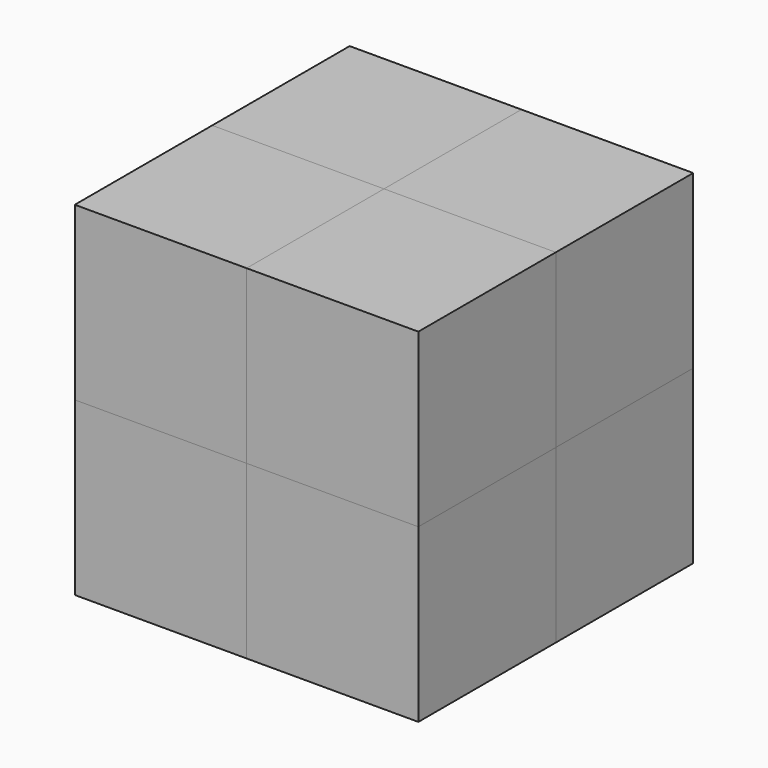
from build123d import *

# Parameters (mm, degrees)
BOX_W        = 10
BOX_H        = 10
BOX_DEPTH    = 10
BOX001_W     = 10
BOX001_H     = 10
BOX001_DEPTH = 10
BOX002_W     = 10
BOX002_H     = 10
BOX002_DEPTH = 10
BOX003_W     = 10
BOX003_H     = 10
BOX003_DEPTH = 10
BOX004_W     = 10
BOX004_H     = 10
BOX004_DEPTH = 10
BOX005_W     = 10
BOX005_H     = 10
BOX005_DEPTH = 10
BOX006_W     = 10
BOX006_H     = 10
BOX006_DEPTH = 10
BOX007_W     = 10
BOX007_H     = 10
BOX007_DEPTH = 10


with BuildPart() as cube:
    # Box → Box (new body)
    with BuildSketch(Plane.XY):
        with Locations((5, 5)):
            Rectangle(BOX_W, BOX_H)
    extrude(amount=BOX_DEPTH)


with BuildPart() as cube001:
    # Box001 → Box001 (new body)
    with BuildSketch(Plane(origin=(10, 0, 0), x_dir=(1, 0, 0), z_dir=(0, 0, 1))):
        with Locations((5, 5)):
            Rectangle(BOX001_W, BOX001_H)
    extrude(amount=BOX001_DEPTH)


with BuildPart() as cube002:
    # Box002 → Box002 (new body)
    with BuildSketch(Plane(origin=(10, 10, 0), x_dir=(1, 0, 0), z_dir=(0, 0, 1))):
        with Locations((5, 5)):
            Rectangle(BOX002_W, BOX002_H)
    extrude(amount=BOX002_DEPTH)


with BuildPart() as cube003:
    # Box003 → Box003 (new body)
    with BuildSketch(Plane(origin=(0, 10, 0), x_dir=(1, 0, 0), z_dir=(0, 0, 1))):
        with Locations((5, 5)):
            Rectangle(BOX003_W, BOX003_H)
    extrude(amount=BOX003_DEPTH)


with BuildPart() as cube004:
    # Box004 → Box004 (new body)
    with BuildSketch(Plane.XY.offset(10)):
        with Locations((5, 5)):
            Rectangle(BOX004_W, BOX004_H)
    extrude(amount=BOX004_DEPTH)


with BuildPart() as cube005:
    # Box005 → Box005 (new body)
    with BuildSketch(Plane(origin=(10, 0, 10), x_dir=(1, 0, 0), z_dir=(0, 0, 1))):
        with Locations((5, 5)):
            Rectangle(BOX005_W, BOX005_H)
    extrude(amount=BOX005_DEPTH)


with BuildPart() as cube006:
    # Box006 → Box006 (new body)
    with BuildSketch(Plane(origin=(0, 10, 10), x_dir=(1, 0, 0), z_dir=(0, 0, 1))):
        with Locations((5, 5)):
            Rectangle(BOX006_W, BOX006_H)
    extrude(amount=BOX006_DEPTH)


with BuildPart() as cube007:
    # Box007 → Box007 (new body)
    with BuildSketch(Plane(origin=(10, 10, 10), x_dir=(1, 0, 0), z_dir=(0, 0, 1))):
        with Locations((5, 5)):
            Rectangle(BOX007_W, BOX007_H)
    extrude(amount=BOX007_DEPTH)


solid = Compound([cube.part, cube001.part, cube002.part, cube003.part, cube004.part, cube005.part, cube006.part, cube007.part])
